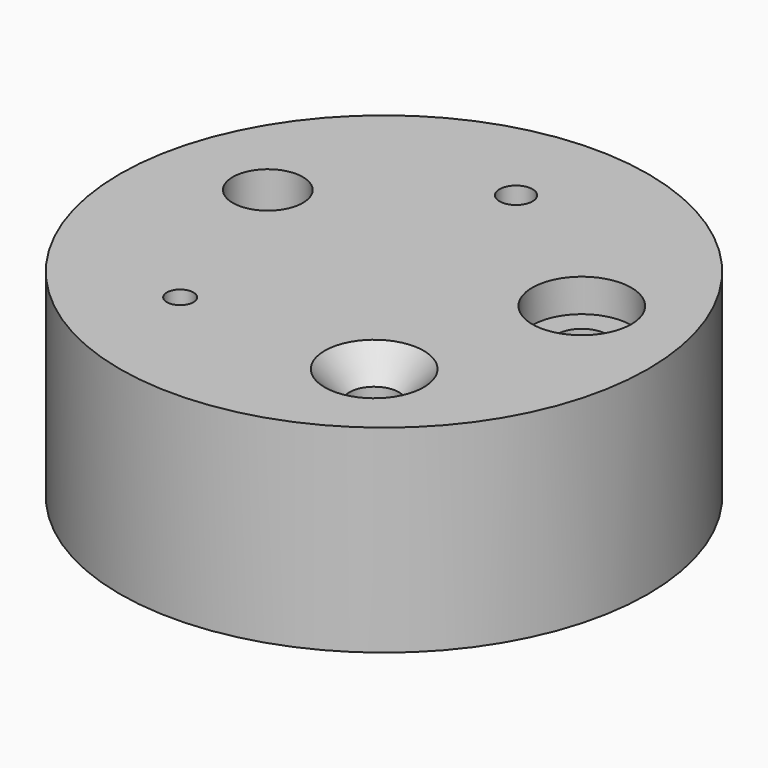
from build123d import *

# Parameters (mm, degrees)
F0_R           = 50.8
F1_DEPTH       = 38.1
F3_D           = 6.35
F4_D           = 9.525
F4_CBORE_D     = 19.05
F4_CBORE_DEPTH = 6.35
F5_D           = 9.525
F5_CSINK_D     = 19.05
F5_CSINK_ANGLE = 82
F6_D           = 5.1054
F7_D           = 13.49248


with BuildPart() as f1:
    # F0 (on Top) → F1 (new body)
    with BuildSketch(Plane.XY):
        Circle(F0_R)
    extrude(amount=F1_DEPTH)

    # F3 (through all)
    with Locations(Plane.XY.offset(38.1)):
        with Locations((0, 31.75)):
            Hole(F3_D / 2)

    # F4 (through all)
    with Locations(Plane.XY.offset(38.1)):
        with Locations((30.1960443924, 9.8112895714)):
            CounterBoreHole(F4_D / 2, F4_CBORE_D / 2, F4_CBORE_DEPTH)

    # F5 (through all)
    with Locations(Plane.XY.offset(38.1)):
        with Locations((18.6621817603, -25.6862895714)):
            CounterSinkHole(F5_D / 2, F5_CSINK_D / 2, counter_sink_angle=F5_CSINK_ANGLE)

    # F6 (through all)
    with Locations(Plane.XY.offset(38.1)):
        with Locations((-18.6621817603, -25.6862895714)):
            Hole(F6_D / 2)

    # F7 (through all)
    with Locations(Plane.XY.offset(38.1)):
        with Locations((-30.1960443924, 9.8112895714)):
            Hole(F7_D / 2)


solid = f1.part
